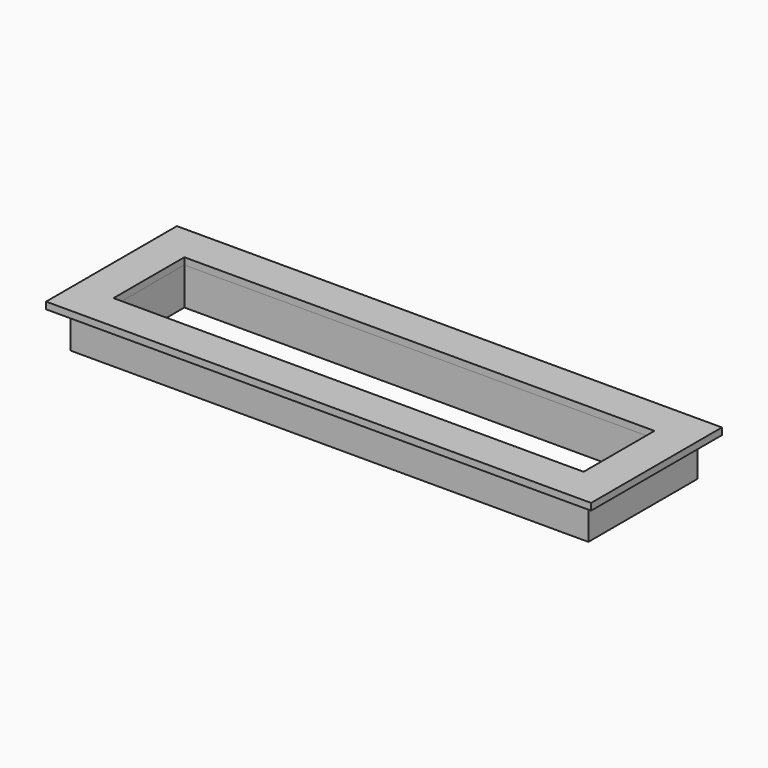
from build123d import *

# Parameters (mm, degrees)
F1_DEPTH = 25.4
F2_DEPTH = 139.7


with BuildPart() as f1:
    # F0 (on Top) → F1 (new body)
    with BuildSketch(Plane.XY):
        Polygon((-983.498255, 305.031293), (-1034.298255, 355.831293), (-1034.298255, -253.768707), (-983.498255, -202.968707), align=None)
        Polygon((997.701745, 355.831293), (-1034.298255, 355.831293), (-983.498255, 305.031293), (946.901745, 305.031293), align=None)
        Polygon((997.701745, -253.768707), (997.701745, 355.831293), (946.901745, 305.031293), (946.901745, -202.968707), align=None)
        Polygon((-983.498255, -202.968707), (-1034.298255, -253.768707), (997.701745, -253.768707), (946.901745, -202.968707), align=None)
        Polygon((-894.598255, 216.131293), (-983.498255, 305.031293), (-983.498255, -202.968707), (-894.598255, -114.068707), align=None)
        Polygon((946.901745, 305.031293), (-983.498255, 305.031293), (-894.598255, 216.131293), (858.001745, 216.131293), align=None)
        Polygon((946.901745, -202.968707), (946.901745, 305.031293), (858.001745, 216.131293), (858.001745, -114.068707), align=None)
        Polygon((-894.598255, -114.068707), (-983.498255, -202.968707), (946.901745, -202.968707), (858.001745, -114.068707), align=None)
    extrude(amount=F1_DEPTH)


with BuildPart() as f2:
    # F0 (on Top) → F2 (new body)
    with BuildSketch(Plane.XY):
        Polygon((-894.598255, 216.131293), (-983.498255, 305.031293), (-983.498255, -202.968707), (-894.598255, -114.068707), align=None)
        Polygon((-894.598255, -114.068707), (-983.498255, -202.968707), (946.901745, -202.968707), (858.001745, -114.068707), align=None)
        Polygon((946.901745, -202.968707), (946.901745, 305.031293), (858.001745, 216.131293), (858.001745, -114.068707), align=None)
        Polygon((946.901745, 305.031293), (-983.498255, 305.031293), (-894.598255, 216.131293), (858.001745, 216.131293), align=None)
    extrude(amount=-F2_DEPTH)


solid = Compound([f1.part, f2.part])
